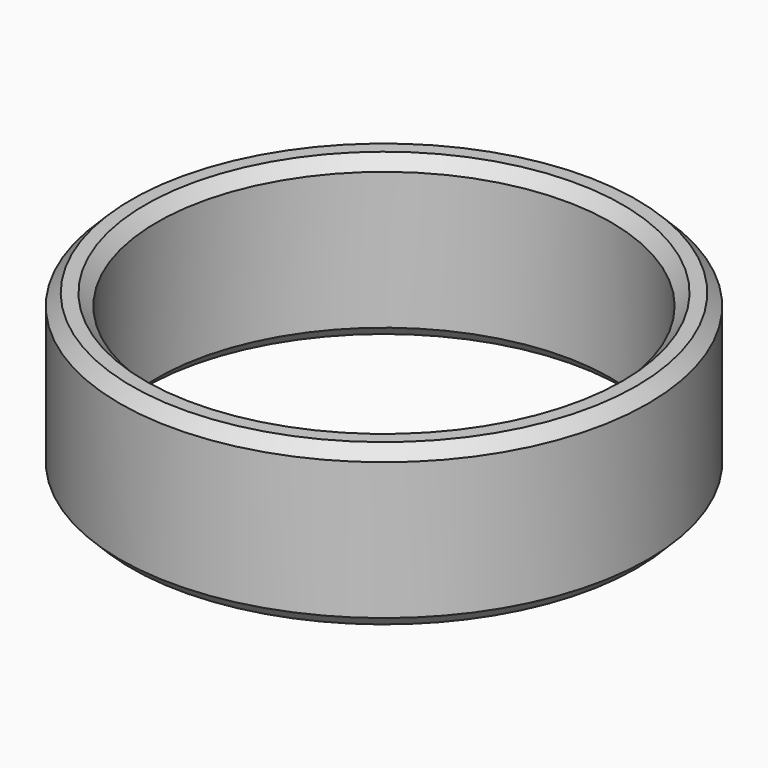
from build123d import *

# Parameters (mm, degrees)
F0_R     = 11.519276
F0_R_2   = 9.9
F1_DEPTH = 7
F2_SIZE  = 0.508
F3_SIZE  = 0.508


with BuildPart() as f1:
    # F0 (on Top) → F1 (new body)
    with BuildSketch(Plane.XY):
        Circle(F0_R)
        Circle(F0_R_2, mode=Mode.SUBTRACT)
    extrude(amount=F1_DEPTH)

    # F2
    f2_edges = [f1.edges().sort_by_distance(p)[0] for p in [
        (-9.9, 0, 0),
        (-9.9, 0, 7),
    ]]
    chamfer(f2_edges, length=F2_SIZE)

    # F3
    f3_edges = [f1.edges().sort_by_distance(p)[0] for p in [
        (-11.519276, 0, 7),
        (-11.519276, 0, 0),
    ]]
    chamfer(f3_edges, length=F3_SIZE)


solid = f1.part
